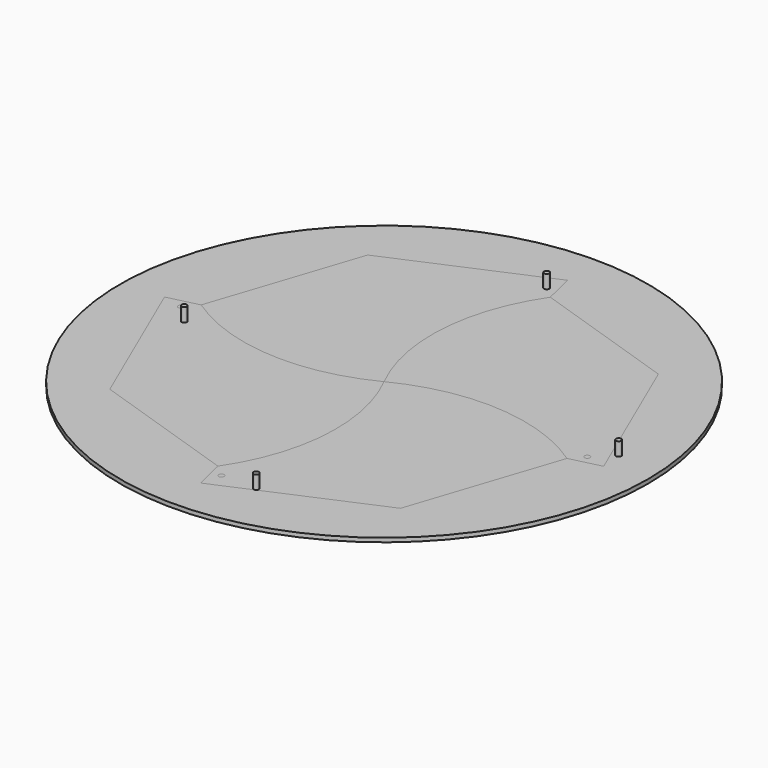
from build123d import *

# Parameters (mm, degrees)
F0_R     = 194.765425
F0_R_2   = 127.48248
F1_DEPTH = 3
F3_R     = 2
F4_DEPTH = 10
F5_R     = 2
F6_DEPTH = 3
F7_COUNT = 4


with BuildPart() as f1:
    # F0 (on Top) → F1 (new body)
    with BuildSketch(Plane.XY):
        Circle(F0_R)
        Circle(F0_R_2, mode=Mode.SUBTRACT)
    extrude(amount=F1_DEPTH)

    # F3 (on face) → F4 (join)
    with BuildSketch(Plane.XY.offset(3)):
        with Locations((0, 150)):
            Circle(F3_R)
        with Locations((-137.153242, -12.846758)):
            Circle(F3_R)
        with Locations((25.693516, -150)):
            Circle(F3_R)
        with Locations((162.846758, 12.846758)):
            Circle(F3_R)
    extrude(amount=F4_DEPTH)


with BuildPart() as f6:
    # F5 (on Top) → F6 (new body)
    with BuildSketch(Plane.XY):
        with BuildLine():
            ThreePointArc((0, 0), (-14.938978, 72.278777), (8.934374, 142.117575))
            Line((8.934374, 142.117575), (3.446762, 164.78169))
            Line((3.446762, 164.78169), (-106.086969, 117.497273))
            Line((-106.086969, 117.497273), (-142.117575, 8.934374))
            ThreePointArc((-142.117575, 8.934374), (-72.278777, -14.938978), (0, 0))
        make_face()
        with Locations((0, 150)):
            Circle(F5_R, mode=Mode.SUBTRACT)
    extrude(amount=F6_DEPTH)


with BuildPart() as f7_1:
    # F7: instance of F6
    add(f6.part.rotate(Axis((0, 0, 3), (0, 0, 1)), 1 * 360 / F7_COUNT))


with BuildPart() as f7_2:
    # F7: instance of F6
    add(f6.part.rotate(Axis((0, 0, 3), (0, 0, 1)), 2 * 360 / F7_COUNT))


with BuildPart() as f7_3:
    # F7: instance of F6
    add(f6.part.rotate(Axis((0, 0, 3), (0, 0, 1)), 3 * 360 / F7_COUNT))


solid = Compound([f1.part, f6.part, f7_1.part, f7_2.part, f7_3.part])
